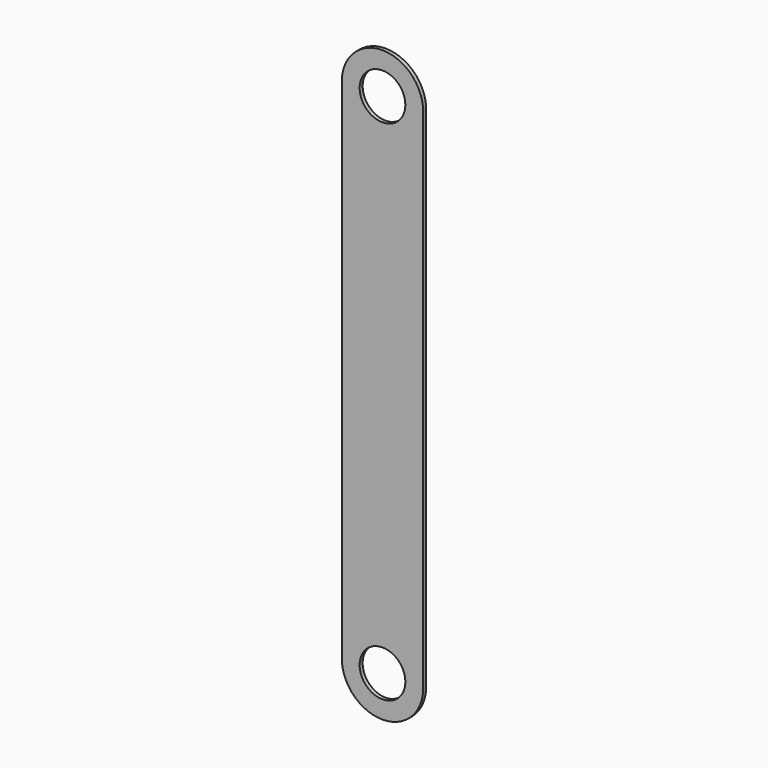
from build123d import *

# Parameters (mm, degrees)
F1_DEPTH = 3.81
F2_R     = 22.86
F3_DEPTH = 25.4


with BuildPart() as f1:
    # F0 (on Front) → F1 (new body)
    with BuildSketch(Plane.XZ):
        with BuildLine():
            Line((-64.644001, 262.057879), (-64.644001, -245.942121))
            ThreePointArc((-64.644001, -245.942121), (-23.95036, -286.635761), (16.74328, -245.942121))
            Line((16.74328, -245.942121), (16.74328, 262.057879))
            ThreePointArc((16.74328, 262.057879), (-23.95036, 302.75152), (-64.644001, 262.057879))
        make_face()
    extrude(amount=F1_DEPTH)

    # F2 (on face) → F3 (cut)
    with BuildSketch(Plane.XZ.offset(3.81)):
        with Locations((-23.95036, 262.057879)):
            Circle(F2_R)
        with Locations((-23.95036, -245.942121)):
            Circle(F2_R)
    extrude(amount=-F3_DEPTH, mode=Mode.SUBTRACT)


solid = f1.part
